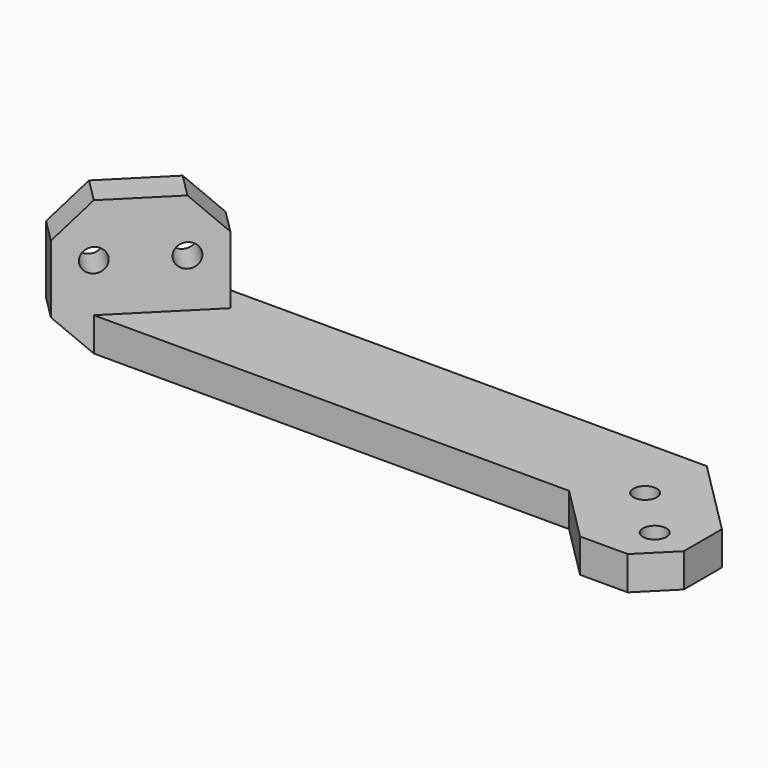
from build123d import *

# Parameters (mm, degrees)
F0_W      = 82
F0_H      = 17
F1_DEPTH  = 5.75
F2_W      = 24.0416305603
F2_H      = 23
F3_DEPTH  = 5.75
F4_R      = 2
F5_DEPTH  = 25
F6_SIZE   = 5.75
F8_DEPTH  = 5.75
F9_R      = 2
F10_DEPTH = 25
F11_SIZE  = 5.75


with BuildPart() as f1:
    # F0 (on Top) → F1 (new body)
    with BuildSketch(Plane.XY):
        Rectangle(F0_W, F0_H)
        Polygon((41, 8.5), (41, -8.5), (58, -8.5), align=None)
        Polygon((-58, -8.5), (-41, -8.5), (-41, 8.5), align=None)
    extrude(amount=F1_DEPTH)

    # F2 (on face) → F3 (join)
    with BuildSketch(Plane(origin=(-24.75, 24.75, 0), x_dir=(-0.7071067812, -0.7071067812, 0), z_dir=(-0.7071067812, 0.7071067812, 0))):
        with Locations((35.0017856687, 11.5)):
            Rectangle(F2_W, F2_H)
    extrude(amount=-F3_DEPTH)

    # F4 (on face) → F5 (cut)
    with BuildSketch(Plane(origin=(-24.75, 24.75, 0), x_dir=(-0.7071067812, -0.7071067812, 0), z_dir=(-0.7071067812, 0.7071067812, 0))):
        with Locations((28.7309703886, 14)):
            Circle(F4_R)
        with Locations((41.2726009489, 14)):
            Circle(F4_R)
    extrude(amount=-F5_DEPTH, mode=Mode.SUBTRACT)

    # F6
    f6_edges = [f1.edges().sort_by_distance(p)[0] for p in [
        (-55.967068, -10.532932, 23),
        (-38.967068, 6.467068, 23),
        (-55.967068, -10.532932, 0),
    ]]
    chamfer(f6_edges, length=F6_SIZE)

    # F7 (on face) → F8 (join)
    with BuildSketch(Plane.XY.offset(5.75)):
        Polygon((58, -8.5), (41, 8.5), (28.3015151902, -5.6715728753), (31.1299423149, -8.5), align=None)
        Polygon((44.5649711575, -21.9350288425), (58, -8.5), (31.1299423149, -8.5), align=None)
    extrude(amount=-F8_DEPTH)

    # F9 (on face) → F10 (cut)
    with BuildSketch(Plane.XY.offset(5.75)):
        with Locations((47.5701749775, -10.7980970389)):
            Circle(F9_R)
        with Locations((39.4384469939, -2.6663690552)):
            Circle(F9_R)
    extrude(amount=-F10_DEPTH, mode=Mode.SUBTRACT)

    # F11
    f11_edges = [f1.edges().sort_by_distance(p)[0] for p in [
        (44.564971, -21.935029, 2.875),
        (58, -8.5, 2.875),
    ]]
    chamfer(f11_edges, length=F11_SIZE)


solid = f1.part
